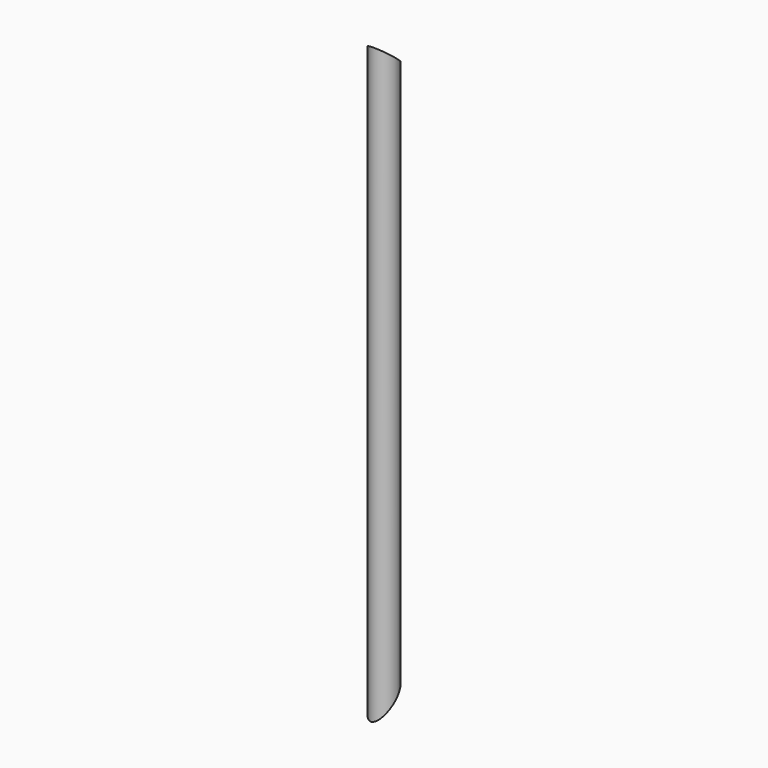
from build123d import *

# Parameters (mm, degrees)
F0_R          = 24.13
F0_R_2        = 20.447
F1_DEPTH      = 1130.3
F3_DEPTH      = 24.131
F3_DEPTH_BACK = 24.131
F5_DEPTH      = 24.131
F5_DEPTH_BACK = 24.131
F8_W          = 230.4114792496
F8_H          = 177.8236068785
F9_DEPTH      = 25.4
F9_DEPTH_BACK = 20.32


with BuildPart() as f1:
    # F0 (on Top) → F1 (new body)
    with BuildSketch(Plane.XY):
        Circle(F0_R)
        Circle(F0_R_2, mode=Mode.SUBTRACT)
    extrude(amount=F1_DEPTH)

    # F2 (on Right) → F3 (cut, two sides)
    with BuildSketch(Plane.YZ) as f3_sk:
        Polygon((24.13, 1089.8050517994), (24.13, 1130.3), (-24.13, 1130.3), align=None)
    extrude(amount=-F3_DEPTH, mode=Mode.SUBTRACT)
    extrude(f3_sk.sketch, amount=F3_DEPTH_BACK, mode=Mode.SUBTRACT)

    # F4 (on Front) → F5 (cut, two sides)
    with BuildSketch(Plane.XZ) as f5_sk:
        Polygon((-28.575, 0), (28.575, 0), (28.575, 26.6494826636), align=None)
    extrude(amount=F5_DEPTH, mode=Mode.SUBTRACT)
    extrude(f5_sk.sketch, amount=-F5_DEPTH_BACK, mode=Mode.SUBTRACT)

    # F8 (on line) → F9 (cut, two sides)
    with BuildSketch(Plane(origin=(-2.5518360133, -6.0381584146, 5.4724299905), x_dir=(-0.9543044076, 0.2214273865, -0.2006813646), z_dir=(0.2988362387, 0.7071067812, -0.6408563821))) as f9_sk:
        with Locations((9.1961668804, 17.1195510775)):
            Rectangle(F8_W, F8_H)
    extrude(amount=F9_DEPTH, mode=Mode.SUBTRACT)
    extrude(f9_sk.sketch, amount=-F9_DEPTH_BACK, mode=Mode.SUBTRACT)


solid = f1.part
